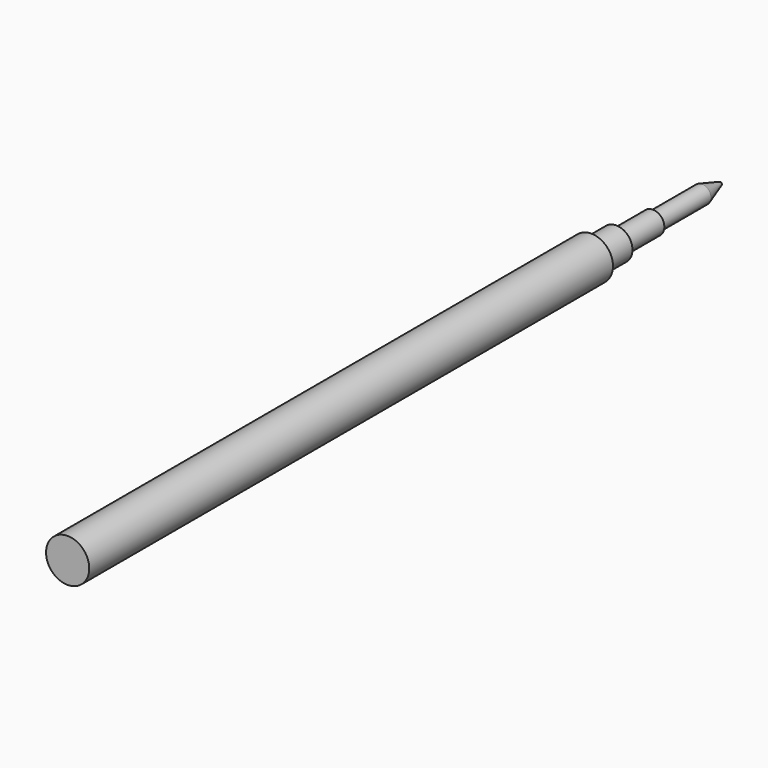
from build123d import *

# Parameters (mm, degrees)
F0_R     = 1.2446
F1_DEPTH = 11.684
F2_SIZE2 = 1.016
F2_SIZE  = 3.175
F3_R     = 1.5875
F4_DEPTH = 6.35
F5_R     = 2.2479
F6_DEPTH = 4.318
F7_R     = 2.9972
F8_DEPTH = 90.805


with BuildPart() as f1:
    # F0 (on Front) → F1 (new body)
    with BuildSketch(Plane.XZ):
        Circle(F0_R)
    extrude(amount=F1_DEPTH)

    # F2
    f2_edges = [f1.edges().sort_by_distance(p)[0] for p in [
        (-1.2446, 0, 0),
    ]]
    f2_side = f1.faces().sort_by_distance((-1.2446, -5.842, 0))[0]
    chamfer(f2_edges, length=F2_SIZE, length2=F2_SIZE2, reference=f2_side)

    # F3 (on face) → F4 (join)
    with BuildSketch(Plane.XZ.offset(11.684)):
        Circle(F3_R)
    extrude(amount=F4_DEPTH)

    # F5 (on face) → F6 (join)
    with BuildSketch(Plane.XZ.offset(18.034)):
        Circle(F5_R)
    extrude(amount=F6_DEPTH)

    # F7 (on face) → F8 (join)
    with BuildSketch(Plane.XZ.offset(22.352)):
        Circle(F7_R)
    extrude(amount=F8_DEPTH)


solid = f1.part
